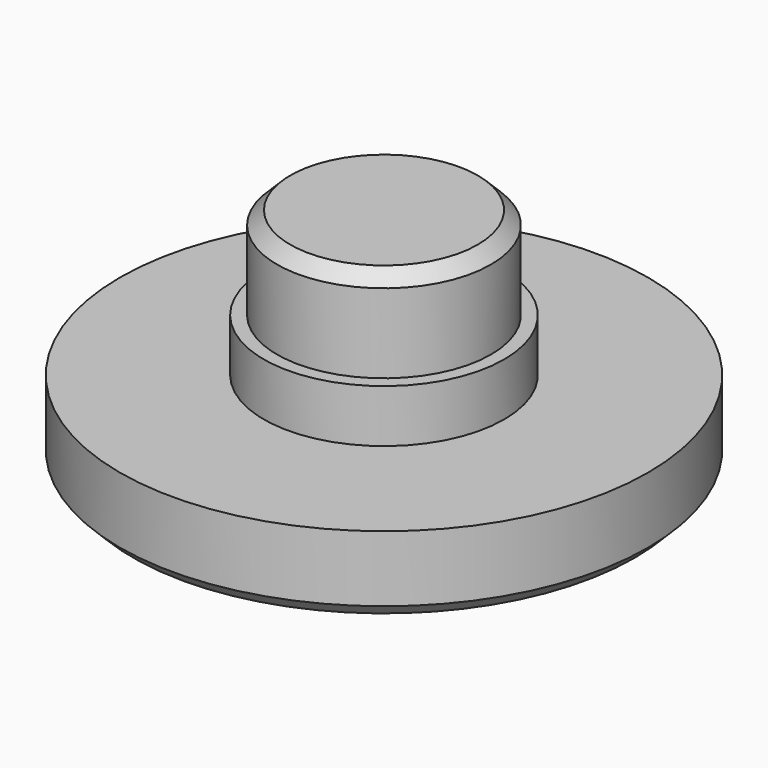
from build123d import *

# Parameters (mm, degrees)
F0_R     = 10
F1_DEPTH = 3
F2_R     = 4.05
F3_DEPTH = 5.5
F4_SIZE  = 0.5
F5_R     = 4.55
F6_DEPTH = 2


with BuildPart() as f1:
    # F0 (on Top) → F1 (new body)
    with BuildSketch(Plane.XY):
        Circle(F0_R)
    extrude(amount=F1_DEPTH)

    # F2 (on face) → F3 (join)
    with BuildSketch(Plane.XY.offset(3)):
        Circle(F2_R)
    extrude(amount=F3_DEPTH)

    # F4
    f4_edges = [f1.edges().sort_by_distance(p)[0] for p in [
        (-4.05, 0, 8.5),
        (-10, 0, 0),
    ]]
    chamfer(f4_edges, length=F4_SIZE)

    # F5 (on face) → F6 (join)
    with BuildSketch(Plane.XY.offset(3)):
        Circle(F5_R)
    extrude(amount=F6_DEPTH)


solid = f1.part
